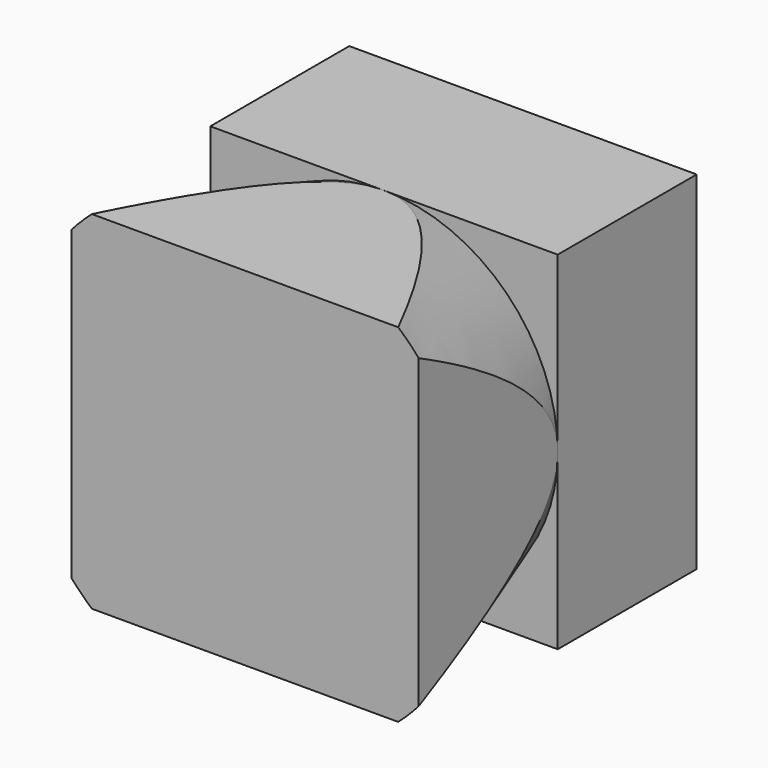
from build123d import *

# Parameters (mm, degrees)
F0_W     = 100
F0_H     = 100
F1_DEPTH = 50


with BuildPart() as f1:
    # F0 (on Top) → F1 (new body, symmetric)
    with BuildSketch(Plane.XY):
        Rectangle(F0_W, F0_H)
    extrude(amount=F1_DEPTH, both=True)

    # F2 (on Top) → F3 (revolve, cut)
    with BuildSketch(Plane.XY):
        Polygon((75, 0), (50, 0), (75, -75), align=None)
    revolve(axis=Axis((0, -37.5, 0), (0, -1, 0)), mode=Mode.SUBTRACT)


solid = f1.part
